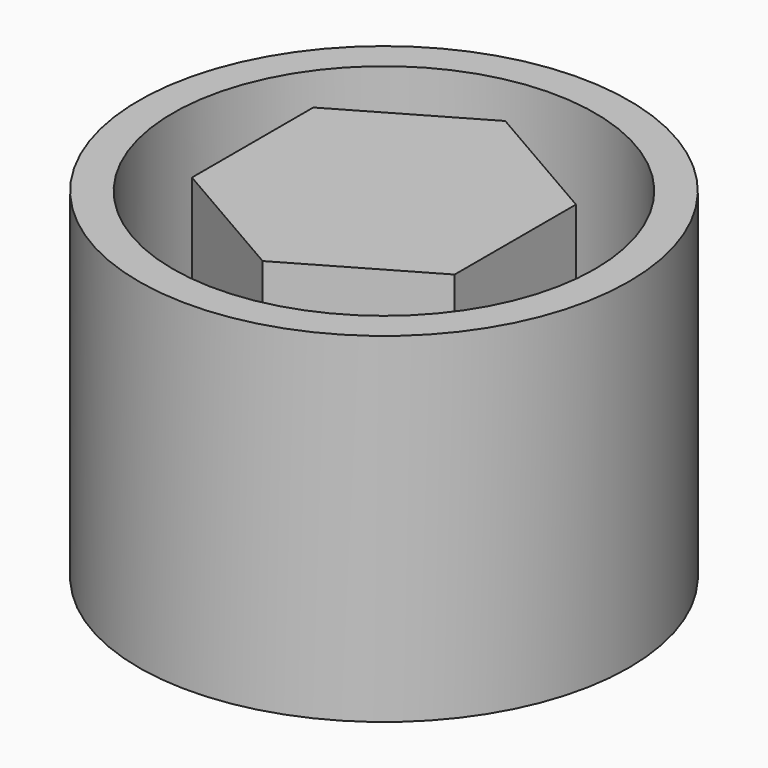
from build123d import *

# Parameters (mm, degrees)
F0_R          = 54.948812
F1_DEPTH      = 50.8
F1_DEPTH_BACK = 25.4
F2_T          = -7.62
F4_DEPTH      = 68.58


with BuildPart() as f1:
    # F0 (on Top) → F1 (new body, two sides)
    with BuildSketch(Plane.XY) as f1_sk:
        Circle(F0_R)
    extrude(amount=F1_DEPTH)
    extrude(f1_sk.sketch, amount=-F1_DEPTH_BACK)

    # F2
    f2_openings = [f1.faces().sort_by_distance(p)[0] for p in [
        (0, 0, 50.8),
    ]]
    offset(amount=F2_T, openings=f2_openings)

    # F3 (on face) → F4 (join)
    with BuildSketch(Plane.XY.offset(-17.78)):
        Polygon((29.444208, -16.999622), (29.444208, 16.999622), (0, 33.999243), (-29.444208, 16.999622), (-29.444208, -16.999622), (0, -33.999243), align=None)
    extrude(amount=F4_DEPTH)


solid = f1.part
